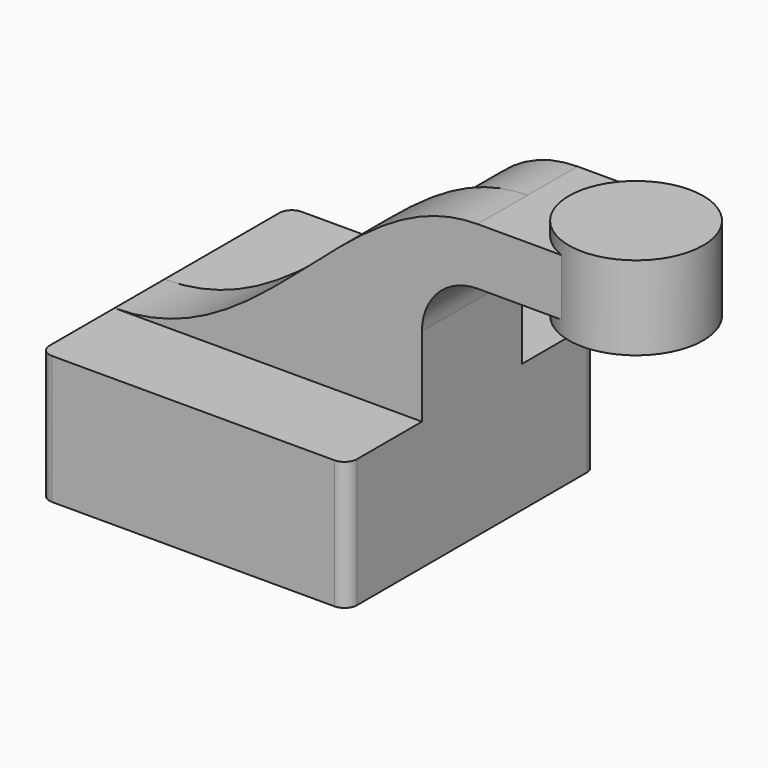
from build123d import *

# Parameters (mm, degrees)
F1_DEPTH = 63.5
F2_DEPTH = 25.4
F3_DEPTH = 25.4
F0_W     = 27.3230625695
F0_H     = 23.1139993296
F4_DEPTH = 25.4
F6_R     = 5.08
F7_R     = 5.08
F8_R     = 5.08


with BuildPart() as f1:
    # F0 (on Front) → F1 (new body, symmetric)
    with BuildSketch(Plane.XZ):
        Polygon((62.5374689698, -26.1636357754), (62.5374689698, 26.1636357754), (39.4234696403, 26.1636357754), (-62.5374689698, 26.1636357754), (-62.5374689698, -26.1636357754), align=None)
    extrude(amount=F1_DEPTH, both=True)

    # F0 (on Front) → F2 (join, symmetric)
    with BuildSketch(Plane.XZ):
        with BuildLine():
            Line((39.4234696403, 26.1636357754), (62.5374689698, 26.1636357754))
            Line((62.5374689698, 26.1636357754), (62.5374689698, 58.5364728849))
            ThreePointArc((62.5374689698, 58.5364728849), (69.1652190391, 74.5372769902), (85.1660231445, 81.1650270596))
            Line((85.1660231445, 81.1650270596), (102.0061121875, 81.1650270596))
            Line((102.0061121875, 81.1650270596), (102.0061121875, 104.2790263891))
            Line((102.0061121875, 104.2790263891), (85.1660231445, 104.2790263891))
            ThreePointArc((85.1660231445, 104.2790263891), (52.8211533729, 90.8813426565), (39.4234696403, 58.5364728849))
            Line((39.4234696403, 58.5364728849), (39.4234696403, 26.1636357754))
        make_face()
    extrude(amount=F2_DEPTH, both=True)

    # F0 (on Front) → F3 (join)
    with BuildSketch(Plane.XZ):
        with BuildLine():
            Line((-62.5374689698, 26.1636357754), (39.4234696403, 26.1636357754))
            Line((39.4234696403, 26.1636357754), (39.4234696403, 58.5364728849))
            ThreePointArc((39.4234696403, 58.5364728849), (52.8211533729, 90.8813426565), (85.1660231445, 104.2790263891))
            add(Edge.make_bspline(
                [(-62.5374689698, 26.1636357754), (0, 26.1636357754), (31.0528287573, 104.2790263891), (85.1660231445, 104.2790263891)],
                knots=[0, 0, 0, 0, 167.0878087519, 167.0878087519, 167.0878087519, 167.0878087519], degree=3))
        make_face()
    extrude(amount=F3_DEPTH)

    # F0 (on Front) → F4 (join, symmetric)
    with BuildSketch(Plane.XZ):
        with Locations((115.6676434722, 92.7220267243)):
            Rectangle(F0_W, F0_H)
    extrude(amount=F4_DEPTH, both=True)

    # F0 (on Front) → F5 (revolve)
    with BuildSketch(Plane.XZ):
        Polygon((129.329174757, 104.2790263891), (129.329174757, 81.1650270596), (129.329174757, 75.5129270256), (156.6522373265, 75.5129270256), (156.6522373265, 109.546918422), (129.329174757, 109.546918422), align=None)
    revolve(axis=Axis((129.329174757, 0, 92.5299227238), (0, 0, 1)))

    # F6
    f6_edges = [f1.edges().sort_by_distance(p)[0] for p in [
        (62.537469, -63.5, 0),
    ]]
    fillet(f6_edges, radius=F6_R)

    # F7
    f7_edges = [f1.edges().sort_by_distance(p)[0] for p in [
        (-62.537469, -63.5, 0),
    ]]
    fillet(f7_edges, radius=F7_R)

    # F8
    f8_edges = [f1.edges().sort_by_distance(p)[0] for p in [
        (-62.537469, 63.5, 0),
        (62.537469, 63.5, 0),
    ]]
    fillet(f8_edges, radius=F8_R)


solid = f1.part
